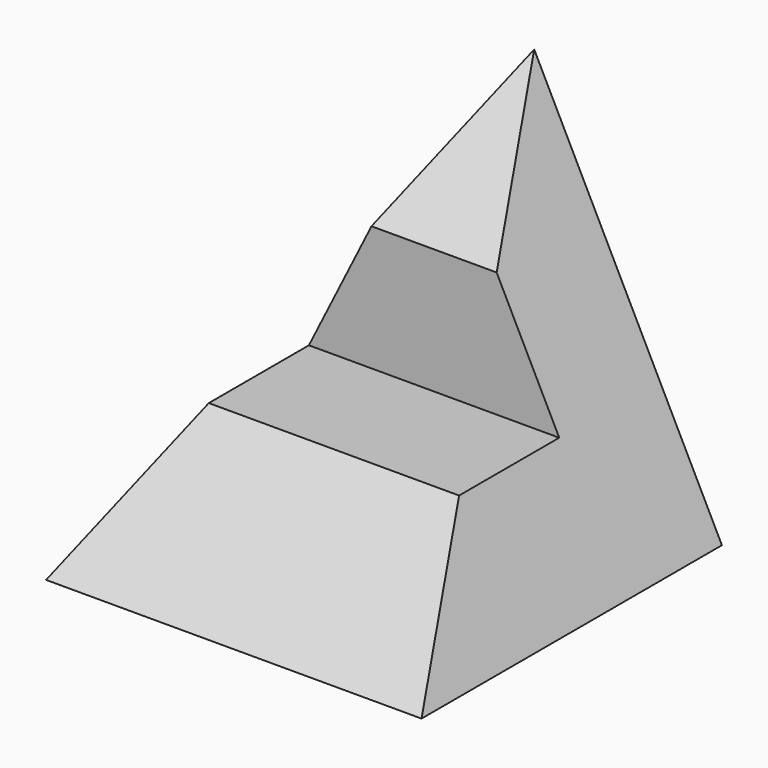
from build123d import *

# Parameters (mm, degrees)
F1_DEPTH = 30
F3_DEPTH = 15


with BuildPart() as f1:
    # F0 (on Front) → F1 (new body)
    with BuildSketch(Plane.XZ):
        Polygon((0, 30), (-15, 0), (15, 0), align=None)
    extrude(amount=F1_DEPTH)

    # F2 (on Right) → F3 (cut, symmetric)
    with BuildSketch(Plane.YZ):
        Polygon((0, 30), (-30, 30), (-30, 0), (-20, 10), (-20, 20), (-10, 20), align=None)
        Polygon((-20, 10), (-10, 20), (-20, 20), align=None)
        Polygon((-10, 10), (-10, 20), (-20, 10), align=None)
    extrude(amount=F3_DEPTH, both=True, mode=Mode.SUBTRACT)


solid = f1.part
